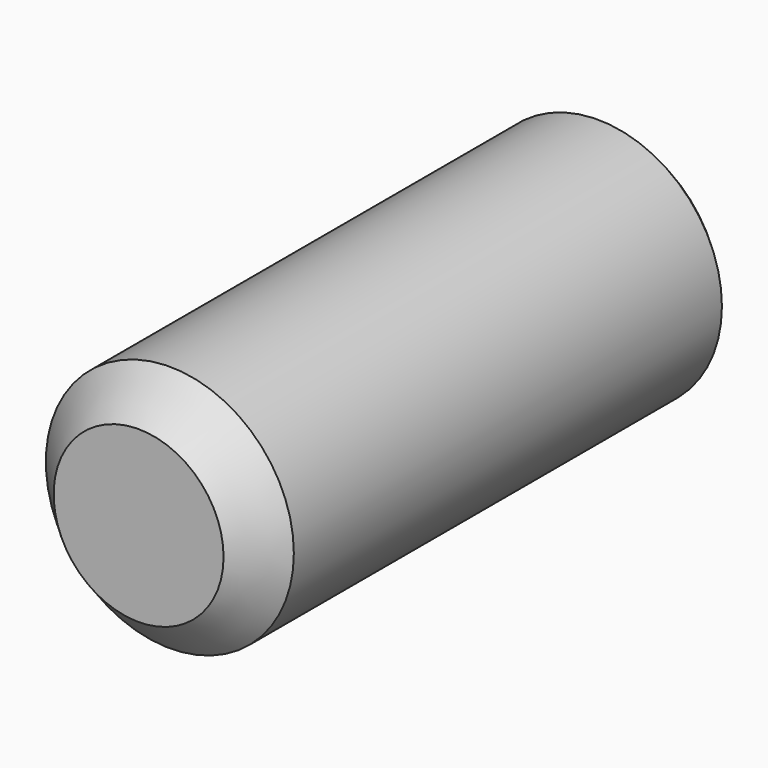
from build123d import *

# Parameters (mm, degrees)
SKETCH022_R     = 3.175
PAD011_DEPTH    = 15
CHAMFER_SIZE    = 0.3
CHAMFER001_SIZE = 1


with BuildPart() as part:
    # Sketch022 → Pad011 (new body)
    with BuildSketch(Plane.XZ):
        Circle(SKETCH022_R)
    extrude(amount=PAD011_DEPTH)

    # Chamfer
    chamfer_edges = [part.edges().sort_by_distance(p)[0] for p in [
        (-3.175, 0, 0),
    ]]
    chamfer(chamfer_edges, length=CHAMFER_SIZE)

    # Chamfer001
    chamfer001_edges = [part.edges().sort_by_distance(p)[0] for p in [
        (-3.175, -15, 0),
    ]]
    chamfer(chamfer001_edges, length=CHAMFER001_SIZE)


with BuildPart() as part_1:
    # Body003003 placement: moved
    add(part.part.moved(Location((0, -8, 0))))


solid = part_1.part
